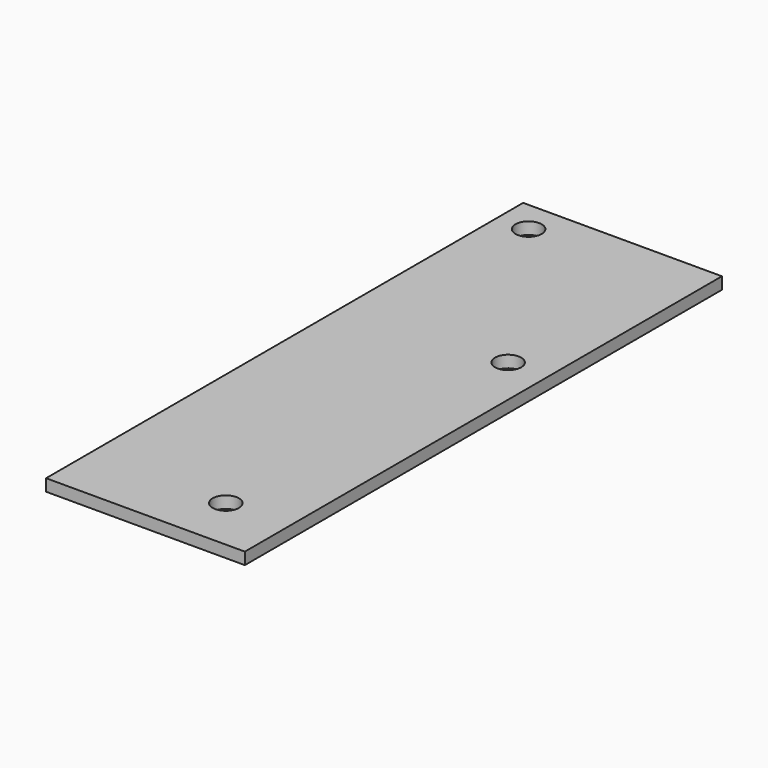
from build123d import *

# Parameters (mm, degrees)
F0_W     = 25
F0_H     = 75
F0_R     = 1.65
F1_DEPTH = 1.5


with BuildPart() as f1:
    # F0 (on Top) → F1 (new body)
    with BuildSketch(Plane.XY):
        with Locations((12.5, 37.5)):
            Rectangle(F0_W, F0_H)
        with Locations((17.09188, 6.894103)):
            Circle(F0_R, mode=Mode.SUBTRACT)
        with Locations((3.907949, 70.974141)):
            Circle(F0_R, mode=Mode.SUBTRACT)
        with Locations((20.055709, 47.570109)):
            Circle(F0_R, mode=Mode.SUBTRACT)
    extrude(amount=F1_DEPTH)


solid = f1.part
